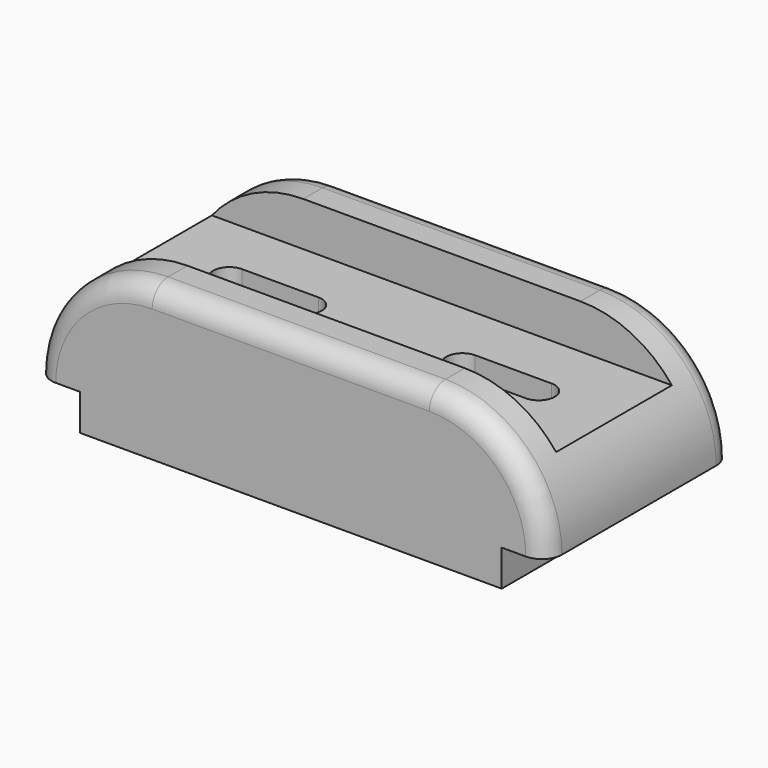
from build123d import *

# Parameters (mm, degrees)
F1_DEPTH = 29
F3_DEPTH = 38.001
F4_DEPTH = 11
F5_R     = 5


with BuildPart() as f1:
    # F0 (on Front) → F1 (new body, symmetric)
    with BuildSketch(Plane.XZ):
        with BuildLine():
            Line((-52.5, 0), (0, 0))
            Line((0, 0), (52.5, 0))
            Line((52.5, 0), (52.5, 9))
            Line((52.5, 9), (63.5, 9))
            ThreePointArc((63.5, 9), (55.006097, 29.506097), (34.5, 38))
            Line((34.5, 38), (0, 38))
            Line((0, 38), (-34.5, 38))
            ThreePointArc((-34.5, 38), (-55.006097, 29.506097), (-63.5, 9))
            Line((-63.5, 9), (-52.5, 9))
            Line((-52.5, 9), (-52.5, 0))
        make_face()
    extrude(amount=F1_DEPTH, both=True)

    # F2 (on face) → F3 (cut, through all)
    with BuildSketch(Plane.XY.offset(38)):
        with BuildLine():
            Line((-19.5, 4), (-34.5, 4))
            Line((-34.5, 4), (-34.5, -4))
            Line((-34.5, -4), (-19.5, -4))
            ThreePointArc((-19.5, -4), (-15.5, 0), (-19.5, 4))
        make_face()
        with BuildLine():
            Line((-34.5, -4), (-34.5, 4))
            Line((-34.5, 4), (-38.5, 4))
            ThreePointArc((-38.5, 4), (-42.5, 0), (-38.5, -4))
            Line((-38.5, -4), (-34.5, -4))
        make_face()
        with BuildLine():
            Line((34.5, -4), (34.5, 4))
            Line((34.5, 4), (19.5, 4))
            ThreePointArc((19.5, 4), (15.5, 0), (19.5, -4))
            Line((19.5, -4), (34.5, -4))
        make_face()
        with BuildLine():
            Line((38.5, 4), (34.5, 4))
            Line((34.5, 4), (34.5, -4))
            Line((34.5, -4), (38.5, -4))
            ThreePointArc((38.5, -4), (42.5, 0), (38.5, 4))
        make_face()
    extrude(amount=-F3_DEPTH, mode=Mode.SUBTRACT)

    # F2 (on face) → F4 (cut)
    with BuildSketch(Plane.XY.offset(38)):
        with BuildLine():
            Line((-34.5, 4), (-34.5, 18))
            Line((-34.5, 18), (-67.5, 18))
            Line((-67.5, 18), (-67.5, -18))
            Line((-67.5, -18), (-34.5, -18))
            Line((-34.5, -18), (-34.5, -4))
            Line((-34.5, -4), (-38.5, -4))
            ThreePointArc((-38.5, -4), (-42.5, 0), (-38.5, 4))
            Line((-38.5, 4), (-34.5, 4))
        make_face()
        with BuildLine():
            Line((34.5, 18), (-34.5, 18))
            Line((-34.5, 18), (-34.5, 4))
            Line((-34.5, 4), (-19.5, 4))
            ThreePointArc((-19.5, 4), (-15.5, 0), (-19.5, -4))
            Line((-19.5, -4), (-34.5, -4))
            Line((-34.5, -4), (-34.5, -18))
            Line((-34.5, -18), (34.5, -18))
            Line((34.5, -18), (34.5, -4))
            Line((34.5, -4), (19.5, -4))
            ThreePointArc((19.5, -4), (15.5, 0), (19.5, 4))
            Line((19.5, 4), (34.5, 4))
            Line((34.5, 4), (34.5, 18))
        make_face()
        with BuildLine():
            Line((74.5, 18), (34.5, 18))
            Line((34.5, 18), (34.5, 4))
            Line((34.5, 4), (38.5, 4))
            ThreePointArc((38.5, 4), (42.5, 0), (38.5, -4))
            Line((38.5, -4), (34.5, -4))
            Line((34.5, -4), (34.5, -18))
            Line((34.5, -18), (74.5, -18))
            Line((74.5, -18), (74.5, 18))
        make_face()
    extrude(amount=-F4_DEPTH, mode=Mode.SUBTRACT)

    # F5
    f5_edges = [f1.edges().sort_by_distance(p)[0] for p in [
        (0, -29, 38),
        (0, 29, 38),
    ]]
    fillet(f5_edges, radius=F5_R)


solid = f1.part
